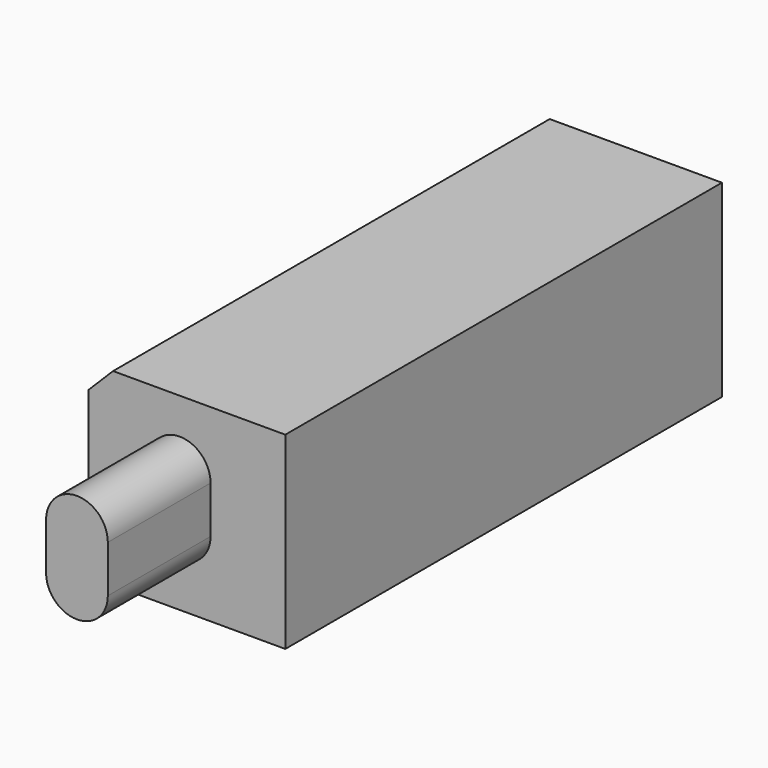
from build123d import *

# Parameters (mm, degrees)
F0_W     = 40.5096374452
F0_H     = 38.8049148023
F1_DEPTH = 138.684
F2_SIZE  = 5.08
F5_DEPTH = 26.416


with BuildPart() as f1:
    # F0 (on Front) → F1 (new body)
    with BuildSketch(Plane.XZ):
        with Locations((20.2548187226, 19.4024574012)):
            Rectangle(F0_W, F0_H)
    extrude(amount=F1_DEPTH)

    # F2
    f2_edges = [f1.edges().sort_by_distance(p)[0] for p in [
        (0, -69.342, 38.804915),
    ]]
    chamfer(f2_edges, length=F2_SIZE)

    # F4 (on face) → F5 (cut)
    with BuildSketch(Plane.XZ.offset(138.684)):
        Polygon((40.5096374452, 38.8049148023), (5.08, 38.8049148023), (0, 33.7249148023), (0, 0), (40.5096374452, 0), align=None)
        with BuildLine():
            Line((12.4323120505, 15.3702050447), (12.4323120505, 25.048552081))
            ThreePointArc((12.4323120505, 25.048552081), (18.7823120505, 31.398552081), (25.1323120505, 25.048552081))
            Line((25.1323120505, 25.048552081), (25.1323120505, 15.3702050447))
            ThreePointArc((25.1323120505, 15.3702050447), (18.7823120505, 9.0202050447), (12.4323120505, 15.3702050447))
        make_face(mode=Mode.SUBTRACT)
    extrude(amount=-F5_DEPTH, mode=Mode.SUBTRACT)


solid = f1.part
